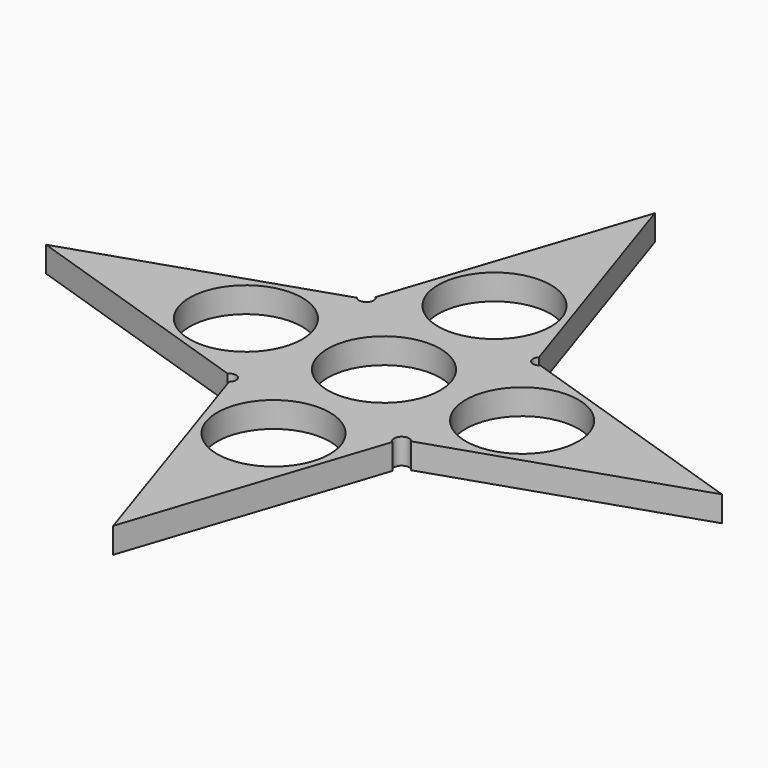
from build123d import *

# Parameters (mm, degrees)
F1_DEPTH = 5
F2_R     = 11.05
F3_DEPTH = 21.4


with BuildPart() as f1:
    # F0 (on Top) → F1 (new body)
    with BuildSketch(Plane.XY):
        Polygon((-16.02057, 18), (0, 18), (0, 66.418399), align=None)
        Polygon((0, 66.418399), (0, 18), (16, 18), align=None)
        Polygon((0, -66.418399), (16.02057, -18), (0, -18), align=None)
        with BuildLine():
            Line((16, 18), (0, 18))
            Line((0, 18), (-16.02057, 18))
            ThreePointArc((-16.02057, 18), (-16.005505, 15.868441), (-18.133087, 15.999446))
            Line((-18.133087, 15.999446), (-18, 0))
            Line((-18, 0), (-17.866742, -16.020016))
            ThreePointArc((-17.866742, -16.020016), (-15.855185, -15.993487), (-16, -18))
            Line((-16, -18), (0, -18))
            Line((0, -18), (16.02057, -18))
            ThreePointArc((16.02057, -18), (15.93745, -15.796578), (18.133087, -15.999446))
            Line((18.133087, -15.999446), (18, 0))
            Line((18, 0), (17.866742, 16.020016))
            ThreePointArc((17.866742, 16.020016), (15.972263, 16.103869), (16, 18))
        make_face()
        Polygon((66.305331, 0), (17.866742, 16.020016), (18, 0), align=None)
        Polygon((66.305331, 0), (18, 0), (18.133087, -15.999446), align=None)
        Polygon((0, -18), (-16, -18), (0, -66.418399), align=None)
        Polygon((-18, 0), (-66.305331, 0), (-17.866742, -16.020016), align=None)
        Polygon((-18, 0), (-18.133087, 15.999446), (-66.305331, 0), align=None)
    extrude(amount=F1_DEPTH)

    # F2 (on Top) → F3 (cut)
    with BuildSketch(Plane.XY):
        with Locations((0, 27.1)):
            Circle(F2_R)
        Circle(F2_R)
        with Locations((-27.1, 0)):
            Circle(F2_R)
        with Locations((27.1, 0)):
            Circle(F2_R)
        with Locations((0, -27.1)):
            Circle(F2_R)
    extrude(amount=F3_DEPTH, mode=Mode.SUBTRACT)


solid = f1.part
